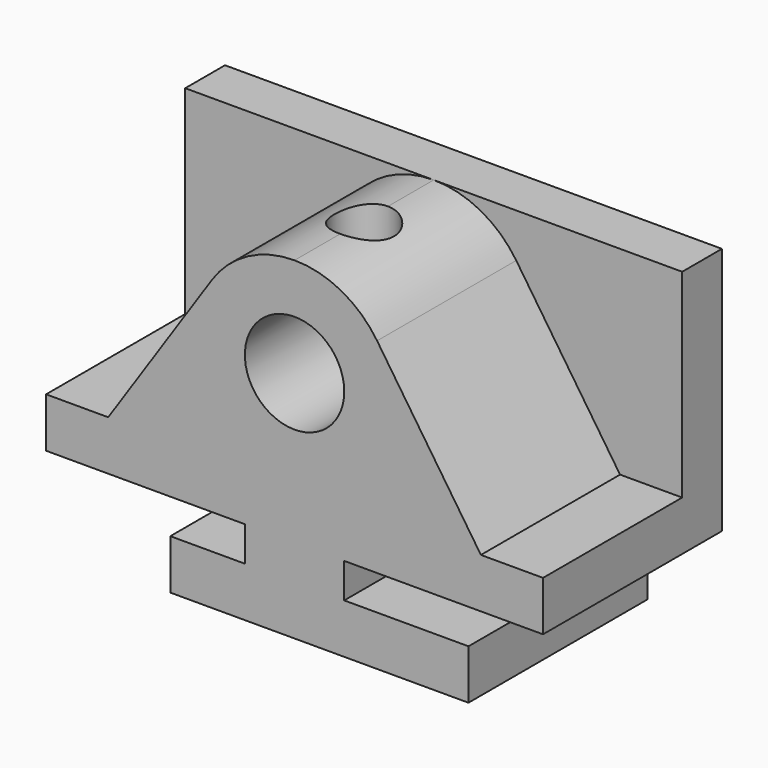
from build123d import *

# Parameters (mm, degrees)
F0_W     = 57.15
F0_H     = 85.09
F1_DEPTH = 63.5
F2_R     = 12.7
F3_DEPTH = 44.45
F4_R     = 7.62
F5_DEPTH = 25.4
F6_DEPTH = 57.151


with BuildPart() as f1:
    # F0 (on Right) → F1 (new body, symmetric)
    with BuildSketch(Plane.YZ):
        with Locations((28.575, 42.545)):
            Rectangle(F0_W, F0_H)
    extrude(amount=F1_DEPTH, both=True)

    # F2 (on Front) → F3 (cut)
    with BuildSketch(Plane.XZ):
        with BuildLine():
            Line((-63.5, 85.09), (-63.5, 34.29))
            Line((-63.5, 34.29), (-47.625, 34.29))
            Line((-47.625, 34.29), (-21.093426, 73.840173))
            ThreePointArc((-21.093426, 73.840173), (-11.952941, 82.101765), (0, 85.09))
            Line((0, 85.09), (-63.5, 85.09))
        make_face()
        with BuildLine():
            Line((47.625, 34.29), (63.5, 34.29))
            Line((63.5, 34.29), (63.5, 85.09))
            Line((63.5, 85.09), (0, 85.09))
            ThreePointArc((0, 85.09), (11.952941, 82.101765), (21.093426, 73.840173))
            Line((21.093426, 73.840173), (47.625, 34.29))
        make_face()
        with Locations((0, 59.69)):
            Circle(F2_R)
    extrude(amount=-F3_DEPTH, mode=Mode.SUBTRACT)

    # F4 (on face) → F5 (cut)
    with BuildSketch(Plane.XY.offset(85.09)):
        with Locations((0, 22.225)):
            Circle(F4_R)
    extrude(amount=-F5_DEPTH, mode=Mode.SUBTRACT)

    # F2 (on Front) → F6 (cut, through all)
    with BuildSketch(Plane.XZ):
        Polygon((-63.5, 0), (-31.75, 0), (-31.75, 12.7), (-12.7, 12.7), (-12.7, 21.59), (-63.5, 21.59), align=None)
        Polygon((44.45, 12.7), (44.45, 0), (63.5, 0), (63.5, 21.59), (12.7, 21.59), (12.7, 12.7), align=None)
    extrude(amount=-F6_DEPTH, mode=Mode.SUBTRACT)


solid = f1.part
